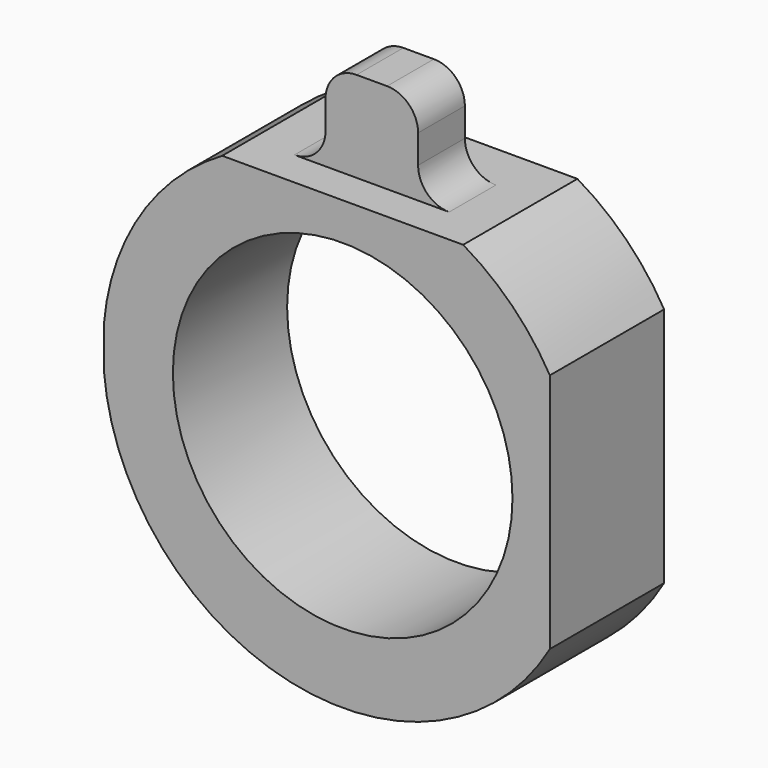
from build123d import *

# Parameters (mm, degrees)
F0_R     = 13.67397
F1_DEPTH = 11.5
F2_W     = 7.456396
F2_H     = 4.709303
F3_DEPTH = 7.3
F4_R     = 2.5


with BuildPart() as f1:
    # F0 (on Front) → F1 (new body)
    with BuildSketch(Plane.XZ):
        with BuildLine():
            Line((-19.229384, 1.655212), (-19.229384, -1.655212))
            ThreePointArc((-19.229384, -1.655212), (-4.219579, -18.833589), (16.684931, -9.701649))
            Line((16.684931, -9.701649), (16.684931, 9.701649))
            ThreePointArc((16.684931, 9.701649), (13.647508, 13.647508), (9.701649, 16.684931))
            Line((9.701649, 16.684931), (-9.701649, 16.684931))
            ThreePointArc((-9.701649, 16.684931), (-16.301052, 10.333665), (-19.229384, 1.655212))
        make_face()
        Circle(F0_R, mode=Mode.SUBTRACT)
    extrude(amount=F1_DEPTH)

    # F2 (on face) → F3 (join)
    with BuildSketch(Plane.XY.offset(16.684931)):
        with Locations((0, -6.213662)):
            Rectangle(F2_W, F2_H)
    extrude(amount=F3_DEPTH)

    # F4
    f4_edges = [f1.edges().sort_by_distance(p)[0] for p in [
        (-3.728198, -6.213663, 23.984931),
        (3.728198, -6.213663, 23.984931),
        (3.728198, -6.213663, 16.684931),
        (-3.728198, -6.213663, 16.684931),
    ]]
    fillet(f4_edges, radius=F4_R)


solid = f1.part
